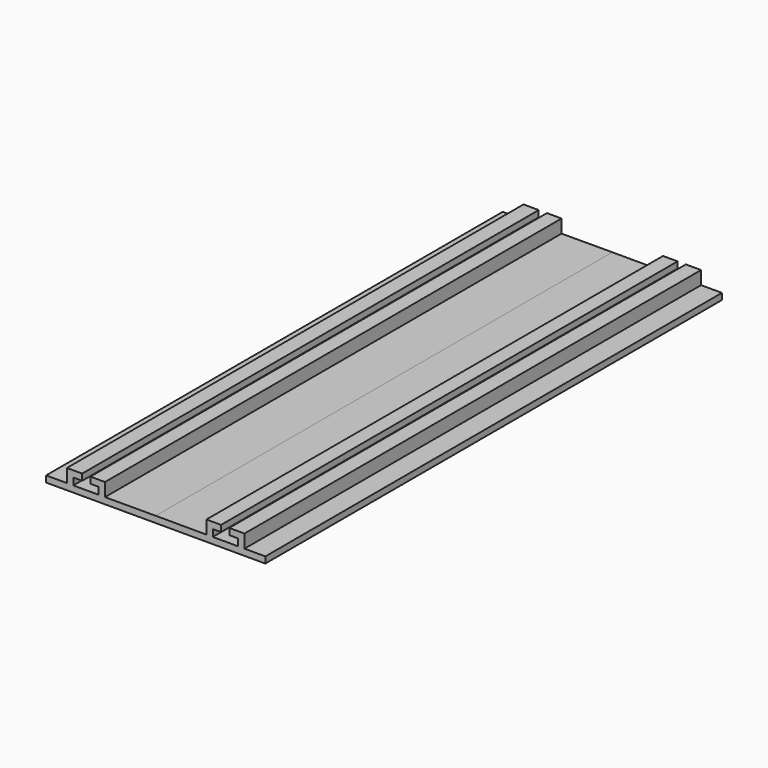
from build123d import *

# Parameters (mm, degrees)
F1_DEPTH = 450


with BuildPart() as f1:
    # F0 (on Front) → F1 (new body)
    with BuildSketch(Plane.XZ):
        Polygon((-86.442302, 0), (0, 0), (86.442302, 0), (86.442302, 5), (70, 5), (70, 15.5), (58, 15.5), (58, 10.5), (65, 10.5), (65, 5), (45, 5), (45, 10.5), (51.5, 10.5), (51.5, 15.5), (40, 15.5), (40, 5), (0, 5.079919), (-40, 5), (-40, 15.5), (-51.5, 15.5), (-51.5, 10.5), (-45, 10.5), (-45, 5), (-65, 5), (-65, 10.5), (-58, 10.5), (-58, 15.5), (-70, 15.5), (-70, 5), (-86.442302, 5), align=None)
    extrude(amount=F1_DEPTH)


solid = f1.part
